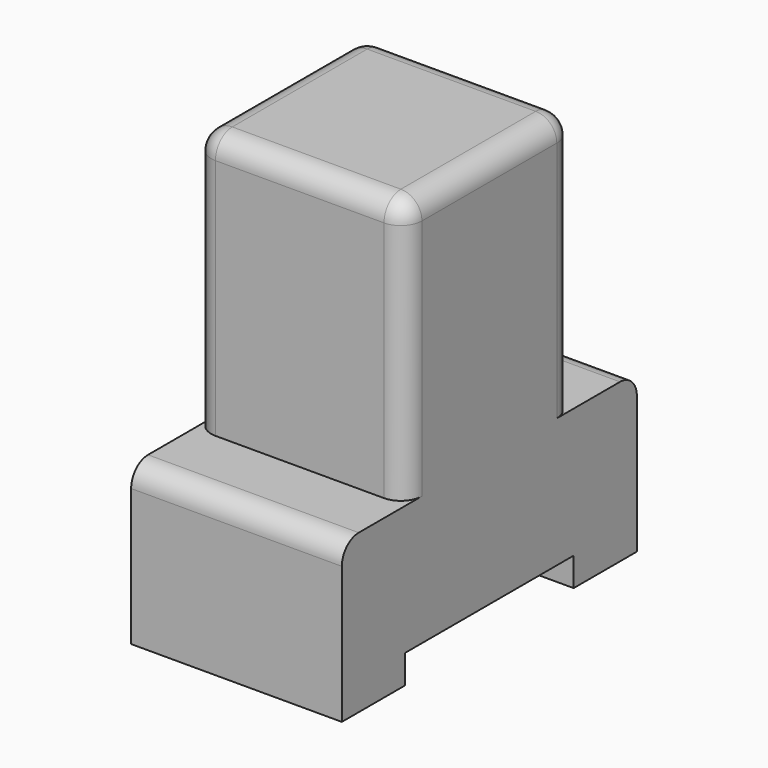
from build123d import *

# Parameters (mm, degrees)
F0_W     = 50.8
F0_H     = 88.9
F1_DEPTH = 101.6
F2_W     = 50.8
F2_H     = 19.05
F3_DEPTH = 63.5
F4_W     = 50.8
F4_H     = 6.9018518552
F5_DEPTH = 50.8
F6_R     = 5.08


with BuildPart() as f1:
    # F0 (on Top) → F1 (new body)
    with BuildSketch(Plane.XY):
        Rectangle(F0_W, F0_H)
    extrude(amount=F1_DEPTH)

    # F2 (on face) → F3 (cut)
    with BuildSketch(Plane.XY.offset(101.6)):
        with Locations((0, -34.925)):
            Rectangle(F2_W, F2_H)
        with Locations((0, 34.925)):
            Rectangle(F2_W, F2_H)
    extrude(amount=-F3_DEPTH, mode=Mode.SUBTRACT)

    # F4 (on face) → F5 (cut)
    with BuildSketch(Plane.YZ.offset(25.4)):
        with Locations((0, 3.4509259276)):
            Rectangle(F4_W, F4_H)
    extrude(amount=-F5_DEPTH, mode=Mode.SUBTRACT)

    # F6
    f6_edges = [f1.edges().sort_by_distance(p)[0] for p in [
        (0, -25.4, 101.6),
        (-25.4, 0, 101.6),
        (0, 25.4, 101.6),
        (25.4, 0, 101.6),
        (25.4, -25.4, 69.85),
        (25.4, 25.4, 69.85),
        (-25.4, 25.4, 69.85),
        (-25.4, -25.4, 69.85),
        (0, -44.45, 38.1),
        (0, 44.45, 38.1),
    ]]
    fillet(f6_edges, radius=F6_R)


solid = f1.part
